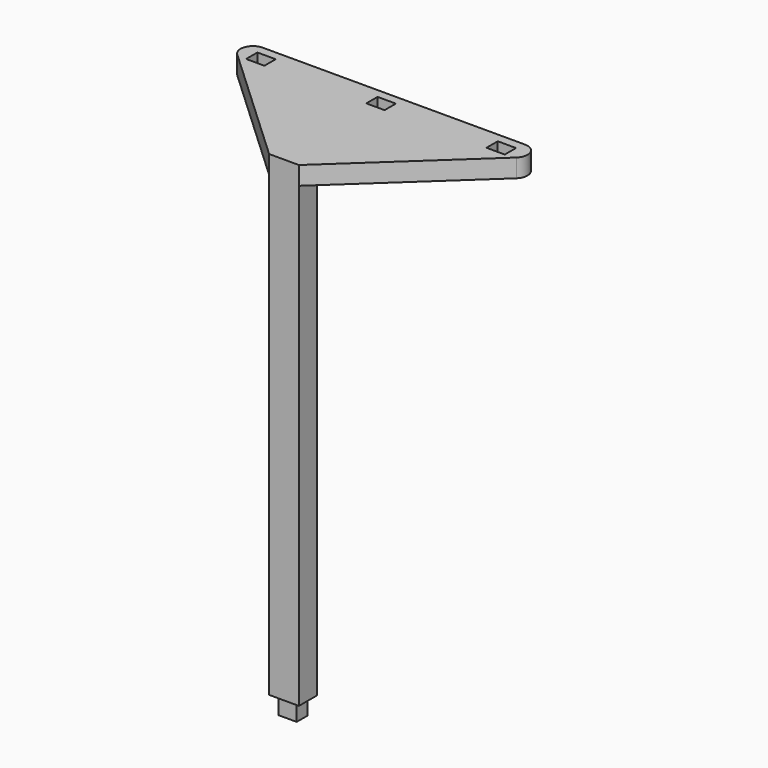
from build123d import *

# Parameters (mm, degrees)
F0_W     = 3.95
F0_H     = 3
F1_DEPTH = 3.9
F0_W_2   = 6.5
F0_H_2   = 5
F2_DEPTH = 100
F3_W     = 4
F3_H     = 3.077
F3_W_2   = 3.25
F3_H_2   = 5
F4_DEPTH = 4
F5_R     = 2.7


with BuildPart() as f1:
    # F0 (on Top) → F1 (new body)
    with BuildSketch(Plane.XY):
        with Locations((-28.5066142678, -30.1459487528)):
            Rectangle(F0_W, F0_H)
    extrude(amount=-F1_DEPTH)

    # F0 (on Top) → F2 (join)
    with BuildSketch(Plane.XY):
        with Locations((-28.5066142678, -30.1459487528)):
            Rectangle(F0_W_2, F0_H_2)
        with Locations((-28.5066142678, -30.1459487528)):
            Rectangle(F0_W, F0_H, mode=Mode.SUBTRACT)
        with Locations((-28.5066142678, -30.1459487528)):
            Rectangle(F0_W, F0_H)
    extrude(amount=F2_DEPTH)

    # F3 (on face) → F4 (join)
    with BuildSketch(Plane.XY.offset(100)):
        Polygon((-64.0066142678, -2.6459487528), (-31.7566142678, -32.6459487528), (-31.7566142678, -27.6459487528), (-28.5066142678, -27.6459487528), (-28.5066142678, -7.6844487528), (-30.5066142678, -7.6844487528), (-30.5066142678, -4.6074487528), (-28.5066142678, -4.6074487528), (-28.5066142678, -2.6459487528), align=None)
        with Locations((-54.7566142678, -6.1459487528)):
            Rectangle(F3_W, F3_H, mode=Mode.SUBTRACT)
        Polygon((6.9933857322, -2.6459487528), (-28.5066142678, -2.6459487528), (-28.5066142678, -4.6074487528), (-26.5066142678, -4.6074487528), (-26.5066142678, -7.6844487528), (-28.5066142678, -7.6844487528), (-28.5066142678, -27.6459487528), (-25.2566142678, -27.6459487528), (-25.2566142678, -32.6459487528), align=None)
        with Locations((-2.2566142678, -6.1459487528)):
            Rectangle(F3_W, F3_H, mode=Mode.SUBTRACT)
        with Locations((-26.8816142678, -30.1459487528)):
            Rectangle(F3_W_2, F3_H_2)
        with Locations((-30.1316142678, -30.1459487528)):
            Rectangle(F3_W_2, F3_H_2)
    extrude(amount=F4_DEPTH)

    # F5
    f5_edges = [f1.edges().sort_by_distance(p)[0] for p in [
        (-64.006614, -2.645949, 102),
        (6.993386, -2.645949, 102),
    ]]
    fillet(f5_edges, radius=F5_R)


solid = f1.part
